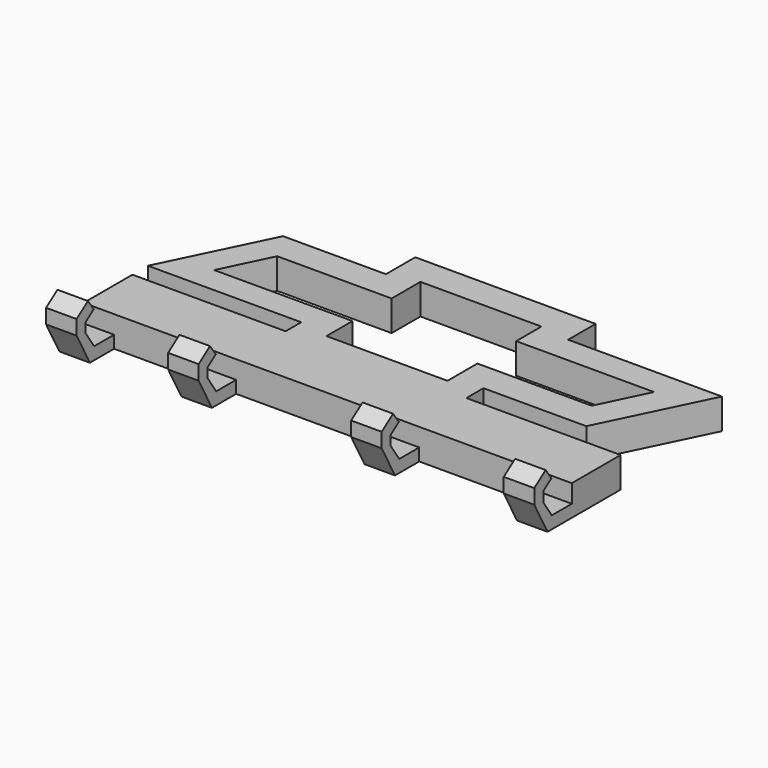
from build123d import *

# Parameters (mm, degrees)
F0_W      = 80
F0_H      = 10
F1_DEPTH  = 5
F3_DEPTH  = 5
F6_DEPTH  = 5
F9_DEPTH  = 5
F12_DEPTH = 5
F14_DEPTH = 5


with BuildPart() as f1:
    # F0 (on Top) → F1 (new body)
    with BuildSketch(Plane.XY):
        with Locations((40, 5)):
            Rectangle(F0_W, F0_H)
    extrude(amount=F1_DEPTH)

    # F2 (on Right) → F3 (join)
    with BuildSketch(Plane.YZ):
        Polygon((-4.9618040211, 0), (0, 0), (0, 2.0297223236), (-4.097959958, 2.0297223236), (-5.8396296574, 4.6212524176), (-5.8396296574, 6.2223259127), (-4.17390365, 7.4121300131), (-5.360500887, 9.073366411), (-7.6862322167, 7.4121300131), (-7.6862322167, 5.0199492835), align=None)
    extrude(amount=F3_DEPTH)

    # F5 (on offset) → F6 (join)
    with BuildSketch(Plane.YZ.offset(20)):
        Polygon((-4.9618040211, 0), (0, 0), (0, 2.0297223236), (-4.097959958, 2.0297223236), (-5.8396296574, 4.6212524176), (-5.8396296574, 6.2223259127), (-4.17390365, 7.4121300131), (-5.360500887, 9.073366411), (-7.6862322167, 7.4121300131), (-7.6862322167, 5.0199492835), align=None)
    extrude(amount=F6_DEPTH)

    # F8 (on offset) → F9 (join)
    with BuildSketch(Plane.YZ.offset(50)):
        Polygon((-5.360500887, 9.073366411), (-7.6862322167, 7.4121300131), (-7.6862322167, 5.0199492835), (-4.9618040211, 0), (0, 0), (0, 2.0297223236), (-4.097959958, 2.0297223236), (-5.8396296574, 4.6212524176), (-5.8396296574, 6.2223259127), (-4.17390365, 7.4121300131), align=None)
    extrude(amount=F9_DEPTH)

    # F11 (on offset) → F12 (join)
    with BuildSketch(Plane.YZ.offset(75)):
        Polygon((-5.8396296574, 6.2223259127), (-4.17390365, 7.4121300131), (-5.360500887, 9.073366411), (-7.6862322167, 7.4121300131), (-7.6862322167, 5.0199492835), (-4.9618040211, 0), (0, 0), (0, 2.0297223236), (-4.097959958, 2.0297223236), (-5.8396296574, 4.6212524176), align=None)
    extrude(amount=F12_DEPTH)

    # F13 (on face) → F14 (join)
    with BuildSketch(Plane.XY.offset(5)):
        Polygon((8.3886766806, 30.3718596697), (0, 13.1700793281), (25.1010470092, 13.2027473301), (25.1010470092, 10), (54.7285676003, 10), (54.7285676003, 13.4966513142), (71.5840160847, 13.4966513142), (80, 30.7553019375), (54.801363498, 30.7553019375), (54.801363498, 36.3780027509), (25.2450443804, 36.3780027509), (25.2450443804, 30.3718596697), align=None)
        Polygon((30.0217233598, 17.5636745989), (7.3759490624, 17.5260230899), (11.2720150501, 25.5676303059), (30.0217233598, 25.5676303059), (30.0217233598, 31.4697995782), (49.8536489904, 31.4697995782), (49.8536489904, 26.3000894338), (72.4333301187, 26.3000894338), (68.5819346344, 18.350683593), (49.8536489904, 18.350683593), (49.8536489904, 12.2224157676), (30.0217233598, 12.2224157676), align=None, mode=Mode.SUBTRACT)
    extrude(amount=-F14_DEPTH)


solid = f1.part
